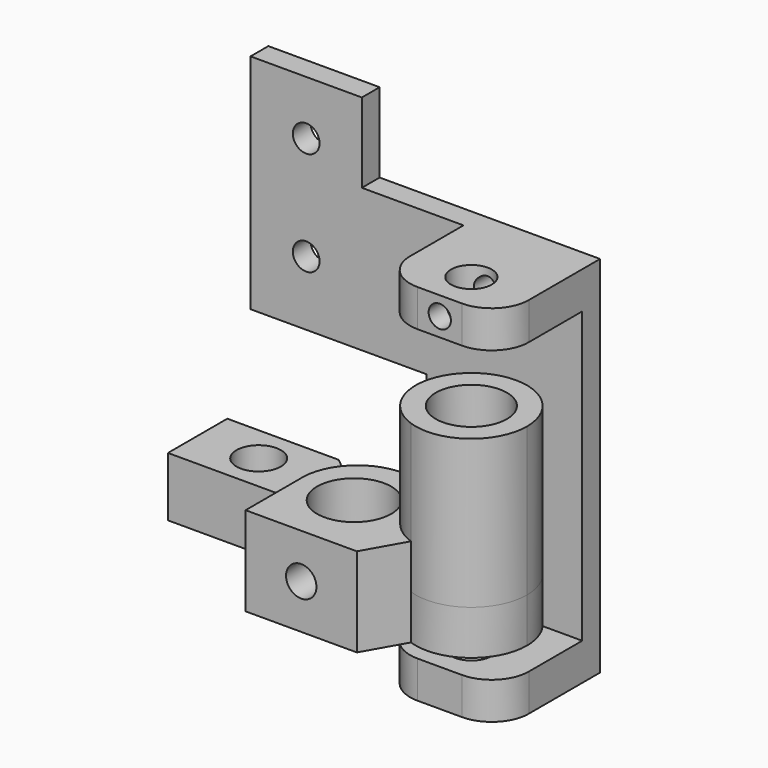
from build123d import *

# Parameters (mm, degrees)
F0_R      = 5
F1_DEPTH  = 6
F0_R_2    = 4.8
F0_R_3    = 3
F2_DEPTH  = 20
F3_DEPTH  = 6
F4_DEPTH  = 4
F5_R      = 4.8
F6_DEPTH  = 10
F7_R      = 4.8
F7_R_2    = 3.8
F8_DEPTH  = 10
F10_D     = 3
F10_DEPTH = 8
F10_TIP   = 0.9012909285
F12_D     = 4.1
F12_DEPTH = 8
F12_TIP   = 1.231764269
F15_DEPTH = 3
F14_W     = 16
F14_H     = 5
F16_DEPTH = 17
F17_D     = 3.6
F19_D     = 5.5
F19_DEPTH = 45
F19_TIP   = 1.6523667023
F20_R     = 5
F22_D     = 3


with BuildPart() as f1:
    # F0 (on Top) → F1 (new body, symmetric)
    with BuildSketch(Plane.XY):
        with BuildLine():
            Line((7.5, -8.9160166681), (7.5, -1.6033675178))
            ThreePointArc((7.5, -1.6033675178), (5.724190526, 1.6755980136), (5.7469759312, 5.4044845859))
            ThreePointArc((5.7469759312, 5.4044845859), (0.2642961594, 8.069590647), (-5.3920486551, 5.7961942593))
            ThreePointArc((-5.3920486551, 5.7961942593), (-7.0675453026, 3.1241309575), (-7.5, 0))
            Line((-7.5, 0), (-7.5, -0.8279169323))
            Line((-7.5, -0.8279169323), (-7.5, -8.9160166681))
            Line((-7.5, -8.9160166681), (7.5, -8.9160166681))
        make_face()
        Circle(F0_R, mode=Mode.SUBTRACT)
        with BuildLine():
            Line((7.5, -8.9160166681), (10.5173872741, -3.5815391175))
            ThreePointArc((10.5173872741, -3.5815391175), (8.88796678, -2.7766030053), (7.5, -1.6033675178))
            Line((7.5, -1.6033675178), (7.5, -8.9160166681))
        make_face()
    extrude(amount=F1_DEPTH, both=True)

    # F0 (on Top) → F2 (join)
    with BuildSketch(Plane.XY):
        with BuildLine():
            ThreePointArc((7.5, -1.6033675178), (8.88796678, -2.7766030053), (10.5173872741, -3.5815391175))
            ThreePointArc((10.5173872741, -3.5815391175), (17.3376493955, -2.6227463013), (20.5, 3.4956519958))
            ThreePointArc((20.5, 3.4956519958), (13.9623719353, 10.9336517442), (5.7469759312, 5.4044845859))
            ThreePointArc((5.7469759312, 5.4044845859), (7.1535100643, 2.8741627566), (7.5, 0))
            Line((7.5, 0), (7.5, -1.6033675178))
        make_face()
        with Locations((13, 3.4956519958)):
            Circle(F0_R_2, mode=Mode.SUBTRACT)
        with BuildLine():
            ThreePointArc((5.7469759312, 5.4044845859), (5.724190526, 1.6755980136), (7.5, -1.6033675178))
            Line((7.5, -1.6033675178), (7.5, 0))
            ThreePointArc((7.5, 0), (7.1535100643, 2.8741627566), (5.7469759312, 5.4044845859))
        make_face()
        with Locations((13, 3.4956519958)):
            Circle(F0_R_2)
        with Locations((13, 3.4956519958)):
            Circle(F0_R_3, mode=Mode.SUBTRACT)
    extrude(amount=F2_DEPTH)

    # F0 (on Top) → F3 (join, through all)
    with BuildSketch(Plane.XY):
        with BuildLine():
            ThreePointArc((5.7469759312, 5.4044845859), (5.724190526, 1.6755980136), (7.5, -1.6033675178))
            Line((7.5, -1.6033675178), (7.5, 0))
            ThreePointArc((7.5, 0), (7.1535100643, 2.8741627566), (5.7469759312, 5.4044845859))
        make_face()
        with BuildLine():
            ThreePointArc((7.5, -1.6033675178), (8.88796678, -2.7766030053), (10.5173872741, -3.5815391175))
            ThreePointArc((10.5173872741, -3.5815391175), (17.3376493955, -2.6227463013), (20.5, 3.4956519958))
            ThreePointArc((20.5, 3.4956519958), (13.9623719353, 10.9336517442), (5.7469759312, 5.4044845859))
            ThreePointArc((5.7469759312, 5.4044845859), (7.1535100643, 2.8741627566), (7.5, 0))
            Line((7.5, 0), (7.5, -1.6033675178))
        make_face()
        with Locations((13, 3.4956519958)):
            Circle(F0_R_2, mode=Mode.SUBTRACT)
        with Locations((13, 3.4956519958)):
            Circle(F0_R_2)
        with Locations((13, 3.4956519958)):
            Circle(F0_R_3, mode=Mode.SUBTRACT)
    extrude(amount=-F3_DEPTH)

    # F0 (on Top) → F4 (join, symmetric)
    with BuildSketch(Plane.XY):
        with BuildLine():
            ThreePointArc((-7.5, 0), (-7.0675453026, 3.1241309575), (-5.3920486551, 5.7961942593))
            Line((-5.3920486551, 5.7961942593), (-9.4072079159, 9.1720830677))
            Line((-9.4072079159, 9.1720830677), (-24.4306735694, 9.1720830677))
            Line((-24.4306735694, 9.1720830677), (-24.4306735694, -0.8279169323))
            Line((-24.4306735694, -0.8279169323), (-7.5, -0.8279169323))
            Line((-7.5, -0.8279169323), (-7.5, 0))
        make_face()
        with Locations((-16.2010006607, 4.1720830677)):
            Circle(F0_R_3, mode=Mode.SUBTRACT)
    extrude(amount=F4_DEPTH, both=True)

    # F5 (on face) → F6 (cut)
    with BuildSketch(Plane.XY.offset(20)):
        with Locations((13, 3.4956519958)):
            Circle(F5_R)
    extrude(amount=-F6_DEPTH, mode=Mode.SUBTRACT)

    # F7 (on face) → F8 (cut)
    with BuildSketch(Plane(origin=(0, 0, -6), x_dir=(1, 0, 0), z_dir=(0, 0, -1))):
        with Locations((13, -3.4956519958)):
            Circle(F7_R)
        with Locations((13, -3.4956519958)):
            Circle(F7_R_2, mode=Mode.SUBTRACT)
    extrude(amount=-F8_DEPTH, mode=Mode.SUBTRACT)

    # F10
    with Locations(Plane(origin=(-24.4306735694, 0, 0), x_dir=(0, -1, 0), z_dir=(-1, 0, 0))):
        with Locations((-4.1720830677, 0)):
            Hole(F10_D / 2, depth=F10_DEPTH)
            with Locations((0, 0, -(F10_DEPTH + F10_TIP / 2))):  # 118° drill point
                Cone(0, F10_D / 2, F10_TIP, mode=Mode.SUBTRACT)

    # F12
    with Locations(Plane.XZ.offset(8.9160166681)):
        with Locations((0, 0)):
            Hole(F12_D / 2, depth=F12_DEPTH)
            with Locations((0, 0, -(F12_DEPTH + F12_TIP / 2))):  # 118° drill point
                Cone(0, F12_D / 2, F12_TIP, mode=Mode.SUBTRACT)


with BuildPart() as f15:
    # F14 (on offset) → F15 (new body)
    with BuildSketch(Plane(origin=(0, 15.1720830677, 0), x_dir=(-1, 0, 0), z_dir=(0, 1, 0))):
        Polygon((0, 16), (23.7010006607, 16), (23.7010006607, 46), (8.7010006607, 46), (8.7010006607, 35.2837964892), (-5, 35.2837964892), (-5, 30.2837964892), (-21, 30.2837964892), (-21, -8.7910083532), (-5, -8.7910083532), (-5, -13.7910083532), (0, -13.7910083532), align=None)
    extrude(amount=-F15_DEPTH)

    # F14 (on offset) → F16 (join)
    with BuildSketch(Plane(origin=(0, 15.1720830677, 0), x_dir=(-1, 0, 0), z_dir=(0, 1, 0))):
        with Locations((-13, 32.7837964892)):
            Rectangle(F14_W, F14_H)
        with Locations((-13, -11.2910083532)):
            Rectangle(F14_W, F14_H)
    extrude(amount=-F16_DEPTH)

    # F17 (through all)
    with Locations(Plane(origin=(0, 15.1720830677, 0), x_dir=(-1, 0, 0), z_dir=(0, 1, 0))):
        with Locations((16.2010006607, 38.7004814446), (16.2010006607, 24.7004814446)):
            Hole(F17_D / 2)

    # F19
    with Locations(Plane.XY.offset(35.2837964892)):
        with Locations((13, 3.4956519958)):
            Hole(F19_D / 2, depth=F19_DEPTH)
            with Locations((0, 0, -(F19_DEPTH + F19_TIP / 2))):  # 118° drill point
                Cone(0, F19_D / 2, F19_TIP, mode=Mode.SUBTRACT)

    # F20
    f20_edges = [f15.edges().sort_by_distance(p)[0] for p in [
        (5, -1.827917, 32.783796),
        (21, -1.827917, 32.783796),
        (5, -1.827917, -11.291008),
        (21, -1.827917, -11.291008),
    ]]
    fillet(f20_edges, radius=F20_R)

    # F22 (through all)
    with Locations(Plane.XZ.offset(1.8279169323)):
        with Locations((13, 32.7837964892)):
            Hole(F22_D / 2)


solid = Compound([f1.part, f15.part])
